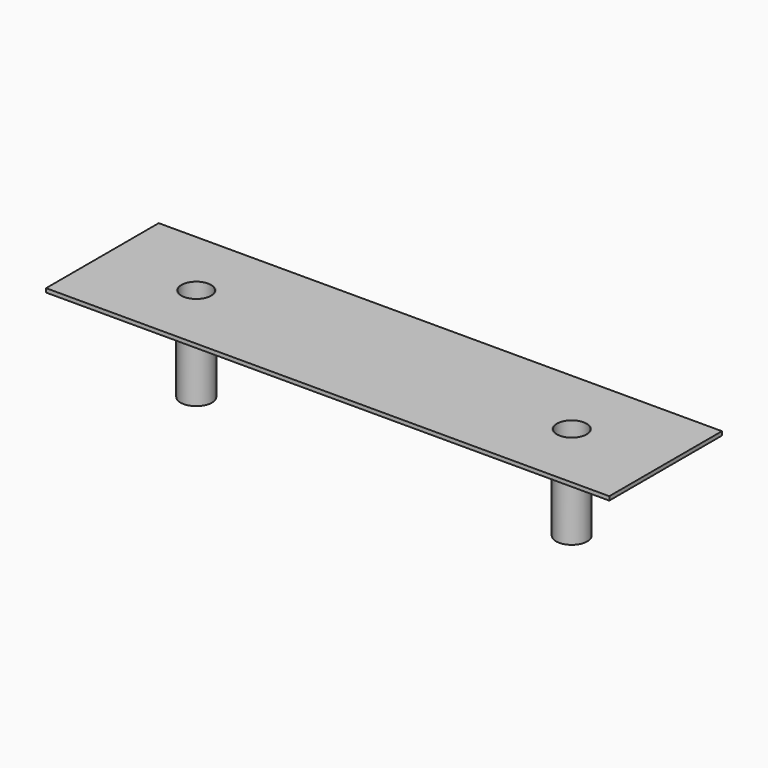
from build123d import *

# Parameters (mm, degrees)
F0_R     = 101.6
F1_DEPTH = 609.6
F2_T     = -6.35
F2_2_T   = -6.35
F3_W     = 3657.6
F3_H     = 914.4
F3_R     = 101.6
F4_DEPTH = 25.4


with BuildPart() as f1:
    # F0 (on Top) → F1 (new body)
    with BuildSketch(Plane.XY):
        Circle(F0_R)
    extrude(amount=-F1_DEPTH)

    # F2
    f2_openings = [f1.faces().sort_by_distance(p)[0] for p in [
        (0, 0, 0),
    ]]
    offset(amount=F2_T, openings=f2_openings)


with BuildPart() as f1b:
    # F0 (on Top) → F1, piece 2 (new body)
    with BuildSketch(Plane.XY):
        with Locations((2438.4, 0)):
            Circle(F0_R)
    extrude(amount=-F1_DEPTH)

    # F2#2
    f2_2_openings = [f1b.faces().sort_by_distance(p)[0] for p in [
        (2438.4, 0, 0),
    ]]
    offset(amount=F2_2_T, openings=f2_2_openings)


with BuildPart() as f4:
    # F3 (on face) → F4 (new body)
    with BuildSketch(Plane.XY):
        with Locations((1219.2, 0)):
            Rectangle(F3_W, F3_H)
        Circle(F3_R, mode=Mode.SUBTRACT)
        with Locations((2438.4, 0)):
            Circle(F3_R, mode=Mode.SUBTRACT)
    extrude(amount=-F4_DEPTH)


solid = Compound([f1.part, f1b.part, f4.part])
